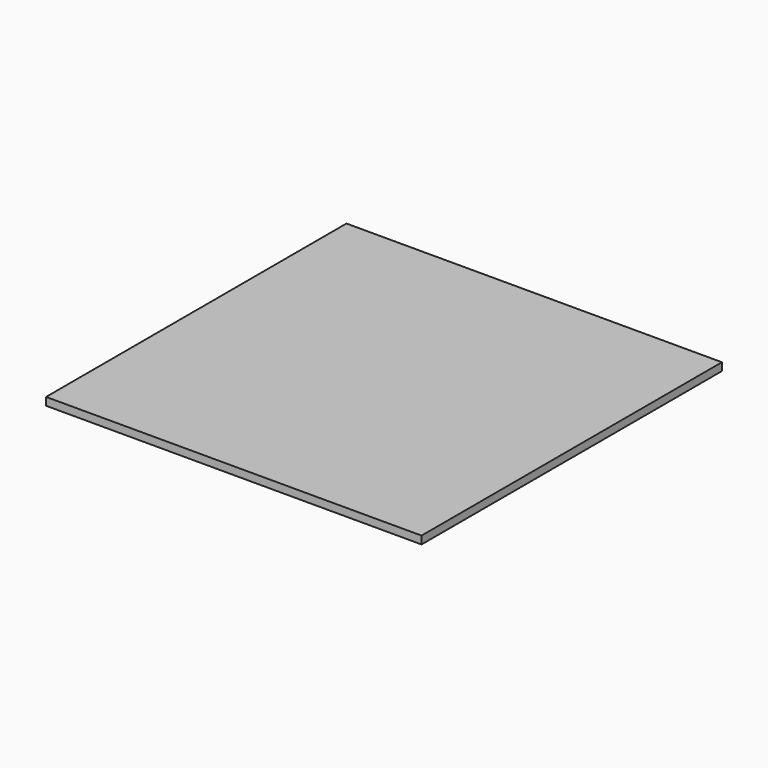
from build123d import *

# Parameters (mm, degrees)
F1_W     = 48.768
F1_H     = 48.768
F2_DEPTH = 1.016


with BuildPart() as f2:
    # F1 (on face) → F2 (new body)
    with BuildSketch(Plane.XY):
        with Locations((25.4, 25.4)):
            Rectangle(F1_W, F1_H)
    extrude(amount=F2_DEPTH)


solid = f2.part
